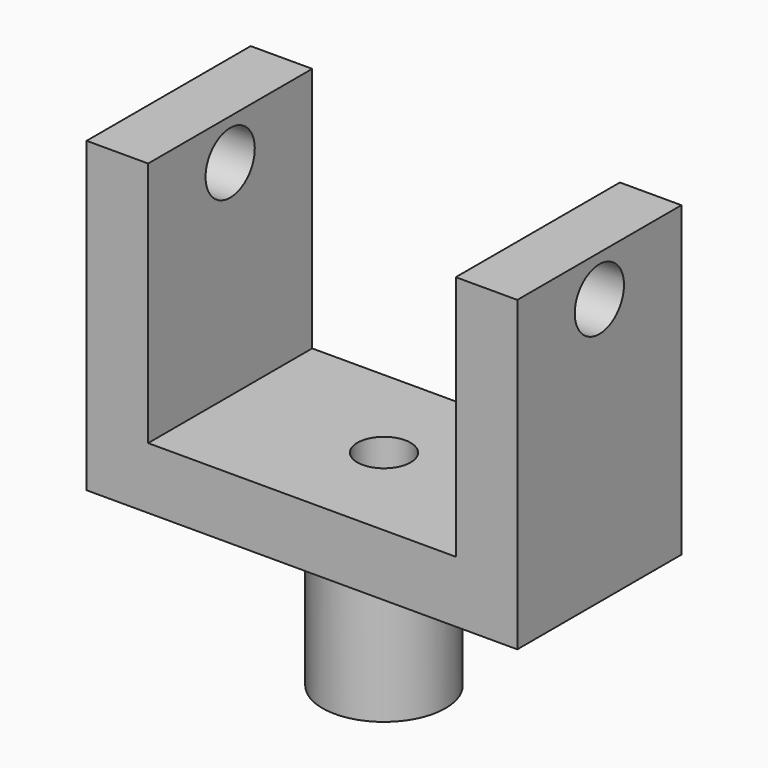
from build123d import *

# Parameters (mm, degrees)
CYLINDER003_R           = 1.3
CYLINDER003_DEPTH       = 10
CYLINDER001_R           = 1.5
CYLINDER001_DEPTH       = 3
CYLINDER001_PITCH_ANGLE = 90
CYLINDER_R              = 1.5
CYLINDER_DEPTH          = 3
CYLINDER_PITCH_ANGLE    = 90
CYLINDER002_R           = 3
CYLINDER002_DEPTH       = 8
BOX001_W                = 3
BOX001_H                = 10
BOX001_DEPTH            = 15
BOX002_W                = 3
BOX002_H                = 10
BOX002_DEPTH            = 15
BOX_W                   = 21
BOX_H                   = 10
BOX_DEPTH               = 3


with BuildPart() as cylinder001:
    # Cylinder003 → Cylinder003 (new body)
    with BuildSketch(Plane(origin=(10.5, 5, -7), x_dir=(1, 0, 0), z_dir=(0, 0, 1))):
        Circle(CYLINDER003_R)
    extrude(amount=CYLINDER003_DEPTH)


with BuildPart() as hole002:
    # Cylinder001 → Cylinder001 (new body)
    with BuildSketch(Plane.XY):
        Circle(CYLINDER001_R)
    extrude(amount=CYLINDER001_DEPTH)


with BuildPart() as hole002_1:
    # Cylinder001 pitch: moved
    add(hole002.part.rotate(Axis((0, 0, 0), (0, 1, 0)), CYLINDER001_PITCH_ANGLE))


with BuildPart() as hole002_2:
    # Cylinder001 placement: moved
    add(hole002_1.part.moved(Location((18, 5, 13))))


with BuildPart() as hole1:
    # Cylinder → Cylinder (new body)
    with BuildSketch(Plane.XY):
        Circle(CYLINDER_R)
    extrude(amount=CYLINDER_DEPTH)


with BuildPart() as hole1_1:
    # Cylinder pitch: moved
    add(hole1.part.rotate(Axis((0, 0, 0), (0, 1, 0)), CYLINDER_PITCH_ANGLE))


with BuildPart() as hole1_2:
    # Cylinder placement: moved
    add(hole1_1.part.moved(Location((0, 5, 13))))


with BuildPart() as cylinder:
    # Cylinder002 → Cylinder002 (new body)
    with BuildSketch(Plane(origin=(10.5, 5, -7), x_dir=(1, 0, 0), z_dir=(0, 0, 1))):
        Circle(CYLINDER002_R)
    extrude(amount=CYLINDER002_DEPTH)


with BuildPart() as cube001:
    # Box001 → Box001 (new body)
    with BuildSketch(Plane.XY):
        with Locations((1.5, 5)):
            Rectangle(BOX001_W, BOX001_H)
    extrude(amount=BOX001_DEPTH)


with BuildPart() as cube002:
    # Box002 → Box002 (new body)
    with BuildSketch(Plane(origin=(18, 0, 0), x_dir=(1, 0, 0), z_dir=(0, 0, 1))):
        with Locations((1.5, 5)):
            Rectangle(BOX002_W, BOX002_H)
    extrude(amount=BOX002_DEPTH)


with BuildPart() as cut002:
    # Box → Box (new body)
    with BuildSketch(Plane.XY):
        with Locations((10.5, 5)):
            Rectangle(BOX_W, BOX_H)
    extrude(amount=BOX_DEPTH)

    # Fusion: union Cube001, Cube002
    add(cube001.part)
    add(cube002.part)

    # Fusion001: union Cylinder
    add(cylinder.part)

    # Cut: cut Hole1
    add(hole1_2.part, mode=Mode.SUBTRACT)

    # Cut001: cut Hole002
    add(hole002_2.part, mode=Mode.SUBTRACT)

    # Cut002: cut Cylinder001
    add(cylinder001.part, mode=Mode.SUBTRACT)


solid = cut002.part
